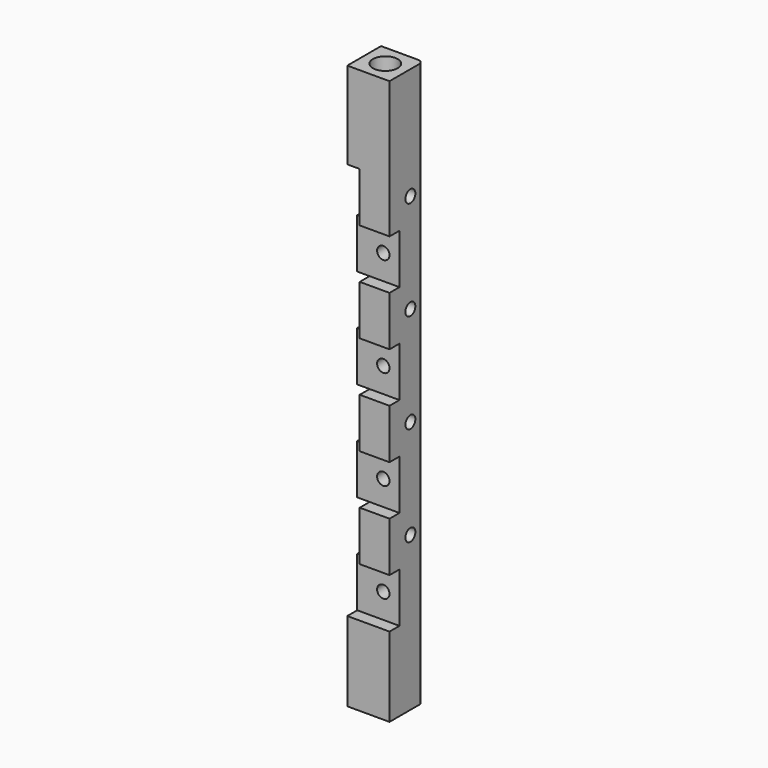
from build123d import *

# Parameters (mm, degrees)
SKETCH_W               = 8.5
SKETCH_H               = 8.5
PAD_DEPTH              = 113.5
SKETCH001_W            = 10
SKETCH001_H            = 10
POCKET_DEPTH           = 2.5
LINEARPATTERN_COUNT    = 4
LINEARPATTERN_PITCH    = 20
SKETCH002_W            = 10
SKETCH002_H            = 10
POCKET001_DEPTH        = 2.5
LINEARPATTERN001_COUNT = 4
LINEARPATTERN001_PITCH = 20
FILLET_R               = 1
SKETCH003_R            = 1.25
POCKET002_DEPTH        = 6.001
LINEARPATTERN002_COUNT = 4
LINEARPATTERN002_PITCH = 20
SKETCH004_R            = 1.25
POCKET003_DEPTH        = 6.001
LINEARPATTERN003_COUNT = 4
LINEARPATTERN003_PITCH = 20
SKETCH005_R            = 2.5
POCKET004_DEPTH        = 12


with BuildPart() as part:
    # Sketch → Pad (new body)
    with BuildSketch(Plane.XY):
        with Locations((4.25, 4.25)):
            Rectangle(SKETCH_W, SKETCH_H)
    extrude(amount=PAD_DEPTH)

    # Sketch001 → Pocket (cut)
    with BuildSketch(Plane.XZ):
        with Locations((4.410969, 21)):
            Rectangle(SKETCH001_W, SKETCH001_H)
    pocket = extrude(amount=-POCKET_DEPTH, mode=Mode.SUBTRACT)

    # LinearPattern: Pocket ×4
    with Locations(*[(0, 0, i * LINEARPATTERN_PITCH) for i in range(1, LINEARPATTERN_COUNT)]):
        add(pocket, mode=Mode.SUBTRACT)

    # Sketch002 → Pocket001 (cut)
    with BuildSketch(Plane(origin=(0, 0, 0), x_dir=(0, -1, 0), z_dir=(-1, 0, 0))):
        with Locations((-4.326825, 31)):
            Rectangle(SKETCH002_W, SKETCH002_H)
    pocket001 = extrude(amount=-POCKET001_DEPTH, mode=Mode.SUBTRACT)

    # LinearPattern001: Pocket001 ×4
    with Locations(*[(0, 0, i * LINEARPATTERN001_PITCH) for i in range(1, LINEARPATTERN001_COUNT)]):
        add(pocket001, mode=Mode.SUBTRACT)

    # Fillet
    fillet_edges = [part.edges().sort_by_distance(p)[0] for p in [
        (8.5, 8.5, 56.75),
    ]]
    fillet(fillet_edges, radius=FILLET_R)

    # Sketch003 → Pocket002 (cut, through all)
    with BuildSketch(Plane.XZ.offset(-2.5)):
        with Locations((5.25, 21)):
            Circle(SKETCH003_R)
    pocket002 = extrude(amount=-POCKET002_DEPTH, mode=Mode.SUBTRACT)

    # LinearPattern002: Pocket002 ×4
    with Locations(*[(0, 0, i * LINEARPATTERN002_PITCH) for i in range(1, LINEARPATTERN002_COUNT)]):
        add(pocket002, mode=Mode.SUBTRACT)

    # Sketch004 → Pocket003 (cut, through all)
    with BuildSketch(Plane(origin=(2.5, 0, 0), x_dir=(0, -1, 0), z_dir=(-1, 0, 0))):
        with Locations((-5.25, 31)):
            Circle(SKETCH004_R)
    pocket003 = extrude(amount=-POCKET003_DEPTH, mode=Mode.SUBTRACT)

    # LinearPattern003: Pocket003 ×4
    with Locations(*[(0, 0, i * LINEARPATTERN003_PITCH) for i in range(1, LINEARPATTERN003_COUNT)]):
        add(pocket003, mode=Mode.SUBTRACT)

    # Sketch005 → Pocket004 (cut)
    with BuildSketch(Plane.XY.offset(113.5)):
        with Locations((4.25, 4.25)):
            Circle(SKETCH005_R)
    extrude(amount=-POCKET004_DEPTH, mode=Mode.SUBTRACT)


solid = part.part
